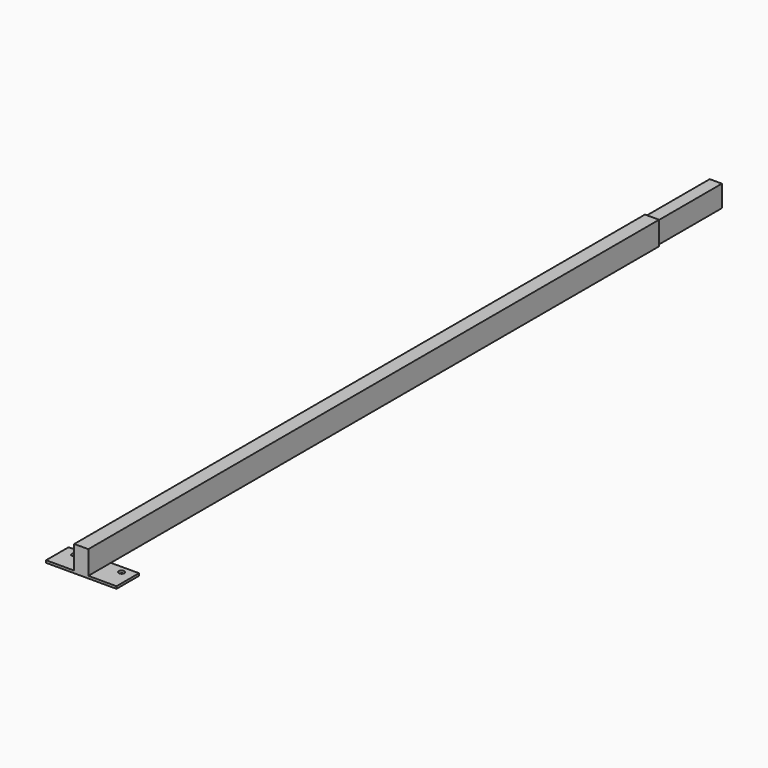
from build123d import *

# Parameters (mm, degrees)
F0_W     = 26
F0_H     = 46
F1_DEPTH = 170
F2_W     = 30
F2_H     = 50
F3_DEPTH = 1520
F4_W     = 60
F4_H     = 60
F4_R     = 6
F5_DEPTH = 5


with BuildPart() as f1:
    # F0 (on Front) → F1 (new body)
    with BuildSketch(Plane.XZ):
        Rectangle(F0_W, F0_H)
    extrude(amount=F1_DEPTH)

    # F2 (on face) → F3 (join)
    with BuildSketch(Plane.XZ.offset(170)):
        Rectangle(F2_W, F2_H)
    extrude(amount=F3_DEPTH)

    # F4 (on face) → F5 (join)
    with BuildSketch(Plane(origin=(0, 0, -25), x_dir=(1, 0, 0), z_dir=(0, 0, -1))):
        Polygon((15, 1690), (-15, 1690), (-15, 1630), (15, 1630), (15, 1645), align=None)
        with Locations((-45, 1660)):
            Rectangle(F4_W, F4_H)
        with Locations((-50, 1645)):
            Circle(F4_R, mode=Mode.SUBTRACT)
        with BuildLine():
            ThreePointArc((56, 1645), (50, 1651), (44, 1645))
            ThreePointArc((44, 1645), (50, 1639), (56, 1645))
        make_face()
        Polygon((75, 1690), (15, 1690), (15, 1645), (15, 1630), (75, 1630), align=None)
        with BuildLine():
            ThreePointArc((56, 1645), (50, 1639), (44, 1645))
            ThreePointArc((44, 1645), (50, 1651), (56, 1645))
        make_face(mode=Mode.SUBTRACT)
    extrude(amount=F5_DEPTH)


solid = f1.part
